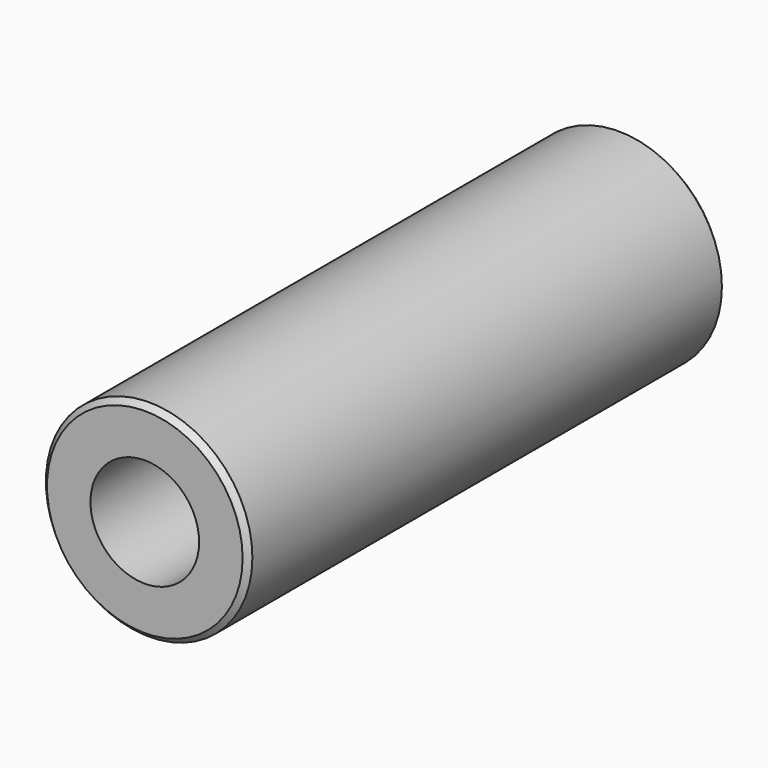
from build123d import *

# Parameters (mm, degrees)
F0_R     = 9.5
F0_R_2   = 5
F1_DEPTH = 55
F2_SIZE  = 0.5


with BuildPart() as f1:
    # F0 (on Front) → F1 (new body)
    with BuildSketch(Plane.XZ):
        Circle(F0_R)
        Circle(F0_R_2, mode=Mode.SUBTRACT)
    extrude(amount=F1_DEPTH)

    # F2
    f2_edges = [f1.edges().sort_by_distance(p)[0] for p in [
        (-9.5, -55, 0),
        (-9.5, 0, 0),
    ]]
    chamfer(f2_edges, length=F2_SIZE)


solid = f1.part
